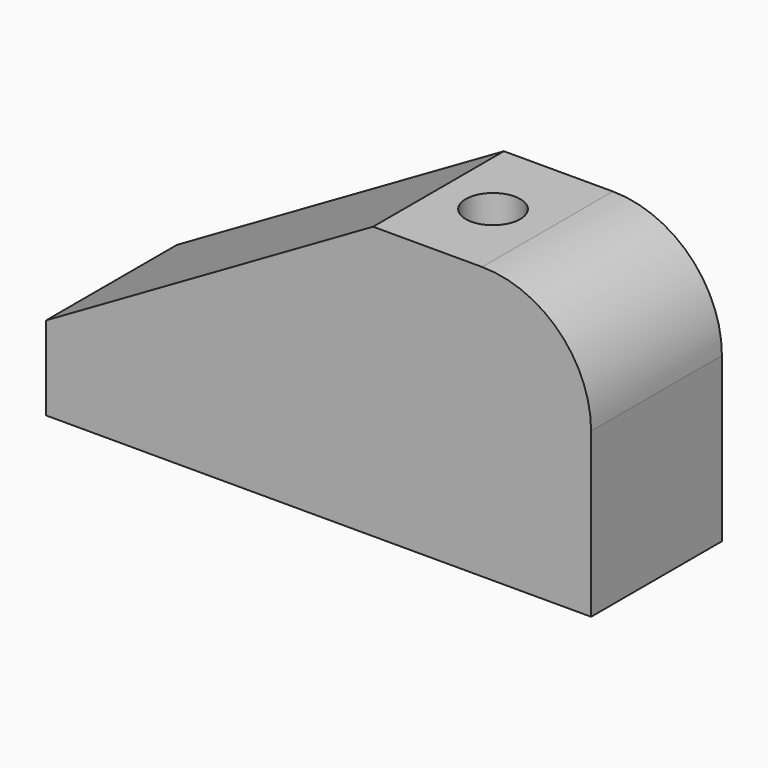
from build123d import *

# Parameters (mm, degrees)
PAD_DEPTH    = 30
SKETCH001_R  = 5
POCKET_DEPTH = 50.001


with BuildPart() as part:
    # Sketch → Pad (new body)
    with BuildSketch(Plane.XZ):
        with BuildLine():
            Line((0, 0), (100, 0))
            Line((100, 0), (100, 30))
            ThreePointArc((100, 30), (94.142136, 44.142136), (80, 50))
            Line((60, 50), (80, 50))
            Line((0, 15.358984), (60, 50))
            Line((0, 0), (0, 15.358984))
        make_face()
    extrude(amount=-PAD_DEPTH)

    # Sketch001 (on DatumPlane) → Pocket (cut, through all)
    with BuildSketch(Plane(origin=(70, 15, 50), x_dir=(1, 0, 0), z_dir=(0, 0, 1))):
        Circle(SKETCH001_R)
    extrude(amount=-POCKET_DEPTH, mode=Mode.SUBTRACT)


solid = part.part
